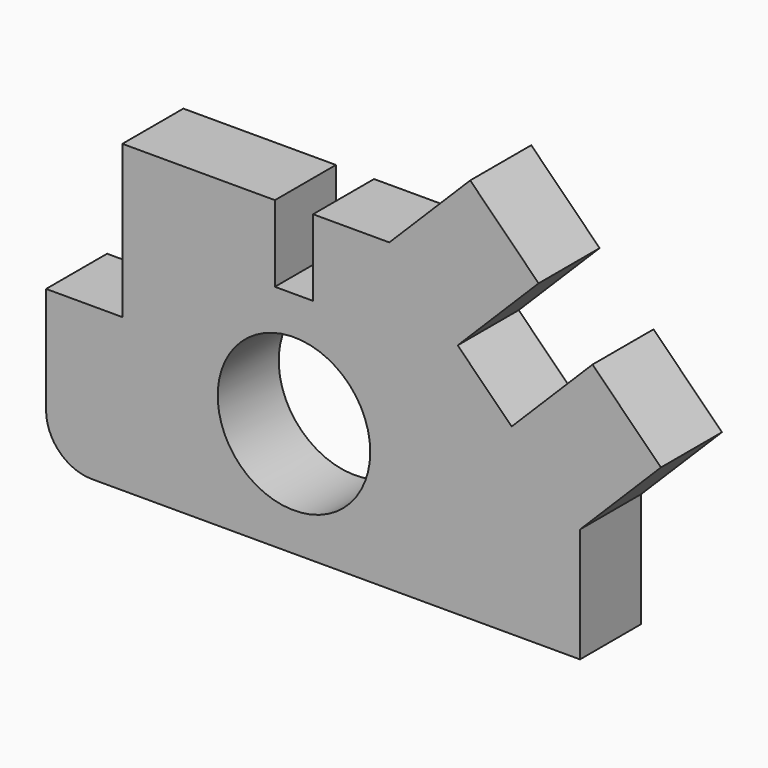
from build123d import *

# Parameters (mm, degrees)
F0_R     = 254
F1_DEPTH = 254


with BuildPart() as f1:
    # F0 (on Front) → F1 (new body)
    with BuildSketch(Plane.XZ):
        with BuildLine():
            ThreePointArc((0, 152.4), (44.636927, 44.636927), (152.4, 0))
            Line((152.4, 0), (1778, 0))
            Line((1778, 0), (1778, 381))
            Line((1778, 381), (2047.407684, 650.407684))
            Line((2047.407684, 650.407684), (1819.710245, 878.105122))
            Line((1819.710245, 878.105122), (1550.302561, 608.697439))
            Line((1550.302561, 608.697439), (1370.697439, 788.302561))
            Line((1370.697439, 788.302561), (1640.105122, 1057.710245))
            Line((1640.105122, 1057.710245), (1412.407684, 1285.407684))
            Line((1412.407684, 1285.407684), (1143, 1016))
            Line((1143, 1016), (889, 1016))
            Line((889, 1016), (889, 762))
            Line((889, 762), (762, 762))
            Line((762, 762), (762, 1016))
            Line((762, 1016), (254, 1016))
            Line((254, 1016), (254, 508))
            Line((254, 508), (0, 508))
            Line((0, 508), (0, 152.4))
        make_face()
        with Locations((825.5, 381)):
            Circle(F0_R, mode=Mode.SUBTRACT)
    extrude(amount=F1_DEPTH)


solid = f1.part
